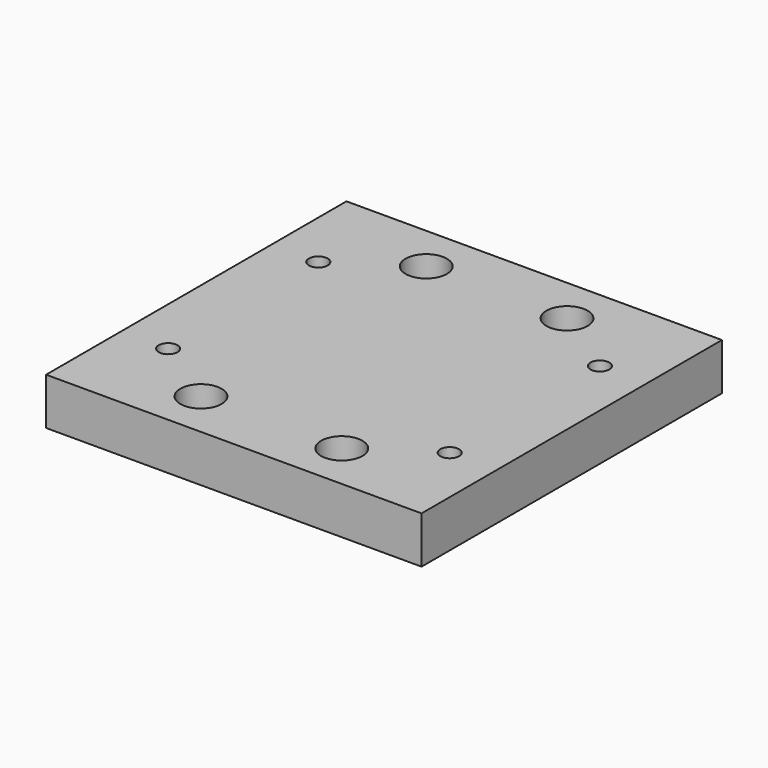
from build123d import *

# Parameters (mm, degrees)
F0_W           = 101.6
F0_H           = 101.6
F1_DEPTH       = 12.7
F3_D           = 6.7564
F3_CBORE_D     = 11.176
F3_CBORE_DEPTH = 6.35
F5_D           = 5.1054


with BuildPart() as f1:
    # F0 (on Top) → F1 (new body)
    with BuildSketch(Plane.XY):
        with Locations((-0.288248, -12.711609)):
            Rectangle(F0_W, F0_H)
    extrude(amount=F1_DEPTH)

    # F3 (through all)
    with Locations(Plane.XY.offset(12.7)):
        with Locations((-19.338248, 25.388391), (18.761752, 25.388391), (-19.338248, -50.811609), (18.761752, -50.811609)):
            CounterBoreHole(F3_D / 2, F3_CBORE_D / 2, F3_CBORE_DEPTH)

    # F5 (through all)
    with Locations(Plane.XY.offset(12.7)):
        with Locations((-38.388248, 12.688391), (-38.388248, -38.111609), (37.811752, -38.111609), (37.811752, 12.688391)):
            Hole(F5_D / 2)


solid = f1.part
